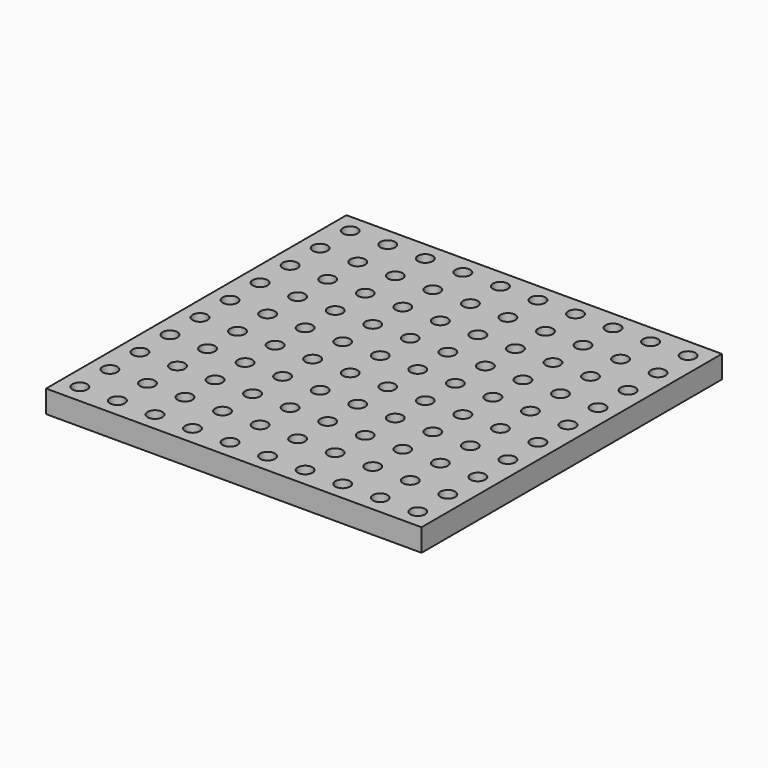
from build123d import *

# Parameters (mm, degrees)
F0_W     = 25.4
F0_H     = 25.4
F0_R     = 0.5
F1_DEPTH = 1.524


with BuildPart() as f1:
    # F0 (on Top) → F1 (new body)
    with BuildSketch(Plane.XY):
        with Locations((11.43, 11.43)):
            Rectangle(F0_W, F0_H)
        Circle(F0_R, mode=Mode.SUBTRACT)
        with Locations((2.54, 0)):
            Circle(F0_R, mode=Mode.SUBTRACT)
        with Locations((5.08, 0)):
            Circle(F0_R, mode=Mode.SUBTRACT)
        with Locations((0, 2.54)):
            Circle(F0_R, mode=Mode.SUBTRACT)
        with Locations((0, 5.08)):
            Circle(F0_R, mode=Mode.SUBTRACT)
        with Locations((2.54, 2.54)):
            Circle(F0_R, mode=Mode.SUBTRACT)
        with Locations((5.08, 2.54)):
            Circle(F0_R, mode=Mode.SUBTRACT)
        with Locations((2.54, 5.08)):
            Circle(F0_R, mode=Mode.SUBTRACT)
        with Locations((5.08, 5.08)):
            Circle(F0_R, mode=Mode.SUBTRACT)
        with Locations((7.62, 0)):
            Circle(F0_R, mode=Mode.SUBTRACT)
        with Locations((10.16, 0)):
            Circle(F0_R, mode=Mode.SUBTRACT)
        with Locations((7.62, 2.54)):
            Circle(F0_R, mode=Mode.SUBTRACT)
        with Locations((7.62, 5.08)):
            Circle(F0_R, mode=Mode.SUBTRACT)
        with Locations((10.16, 2.54)):
            Circle(F0_R, mode=Mode.SUBTRACT)
        with Locations((10.16, 5.08)):
            Circle(F0_R, mode=Mode.SUBTRACT)
        with Locations((0, 7.62)):
            Circle(F0_R, mode=Mode.SUBTRACT)
        with Locations((2.54, 7.62)):
            Circle(F0_R, mode=Mode.SUBTRACT)
        with Locations((5.08, 7.62)):
            Circle(F0_R, mode=Mode.SUBTRACT)
        with Locations((0, 10.16)):
            Circle(F0_R, mode=Mode.SUBTRACT)
        with Locations((2.54, 10.16)):
            Circle(F0_R, mode=Mode.SUBTRACT)
        with Locations((5.08, 10.16)):
            Circle(F0_R, mode=Mode.SUBTRACT)
        with Locations((7.62, 7.62)):
            Circle(F0_R, mode=Mode.SUBTRACT)
        with Locations((10.16, 7.62)):
            Circle(F0_R, mode=Mode.SUBTRACT)
        with Locations((7.62, 10.16)):
            Circle(F0_R, mode=Mode.SUBTRACT)
        with Locations((10.16, 10.16)):
            Circle(F0_R, mode=Mode.SUBTRACT)
        with Locations((12.7, 0)):
            Circle(F0_R, mode=Mode.SUBTRACT)
        with Locations((15.24, 0)):
            Circle(F0_R, mode=Mode.SUBTRACT)
        with Locations((12.7, 2.54)):
            Circle(F0_R, mode=Mode.SUBTRACT)
        with Locations((12.7, 5.08)):
            Circle(F0_R, mode=Mode.SUBTRACT)
        with Locations((15.24, 2.54)):
            Circle(F0_R, mode=Mode.SUBTRACT)
        with Locations((15.24, 5.08)):
            Circle(F0_R, mode=Mode.SUBTRACT)
        with Locations((17.78, 0)):
            Circle(F0_R, mode=Mode.SUBTRACT)
        with Locations((20.32, 0)):
            Circle(F0_R, mode=Mode.SUBTRACT)
        with Locations((22.86, 0)):
            Circle(F0_R, mode=Mode.SUBTRACT)
        with Locations((17.78, 2.54)):
            Circle(F0_R, mode=Mode.SUBTRACT)
        with Locations((20.32, 2.54)):
            Circle(F0_R, mode=Mode.SUBTRACT)
        with Locations((17.78, 5.08)):
            Circle(F0_R, mode=Mode.SUBTRACT)
        with Locations((20.32, 5.08)):
            Circle(F0_R, mode=Mode.SUBTRACT)
        with Locations((22.86, 2.54)):
            Circle(F0_R, mode=Mode.SUBTRACT)
        with Locations((22.86, 5.08)):
            Circle(F0_R, mode=Mode.SUBTRACT)
        with Locations((12.7, 7.62)):
            Circle(F0_R, mode=Mode.SUBTRACT)
        with Locations((15.24, 7.62)):
            Circle(F0_R, mode=Mode.SUBTRACT)
        with Locations((12.7, 10.16)):
            Circle(F0_R, mode=Mode.SUBTRACT)
        with Locations((15.24, 10.16)):
            Circle(F0_R, mode=Mode.SUBTRACT)
        with Locations((17.78, 7.62)):
            Circle(F0_R, mode=Mode.SUBTRACT)
        with Locations((20.32, 7.62)):
            Circle(F0_R, mode=Mode.SUBTRACT)
        with Locations((22.86, 7.62)):
            Circle(F0_R, mode=Mode.SUBTRACT)
        with Locations((17.78, 10.16)):
            Circle(F0_R, mode=Mode.SUBTRACT)
        with Locations((20.32, 10.16)):
            Circle(F0_R, mode=Mode.SUBTRACT)
        with Locations((22.86, 10.16)):
            Circle(F0_R, mode=Mode.SUBTRACT)
        with Locations((0, 12.7)):
            Circle(F0_R, mode=Mode.SUBTRACT)
        with Locations((2.54, 12.7)):
            Circle(F0_R, mode=Mode.SUBTRACT)
        with Locations((5.08, 12.7)):
            Circle(F0_R, mode=Mode.SUBTRACT)
        with Locations((0, 15.24)):
            Circle(F0_R, mode=Mode.SUBTRACT)
        with Locations((2.54, 15.24)):
            Circle(F0_R, mode=Mode.SUBTRACT)
        with Locations((5.08, 15.24)):
            Circle(F0_R, mode=Mode.SUBTRACT)
        with Locations((7.62, 12.7)):
            Circle(F0_R, mode=Mode.SUBTRACT)
        with Locations((10.16, 12.7)):
            Circle(F0_R, mode=Mode.SUBTRACT)
        with Locations((7.62, 15.24)):
            Circle(F0_R, mode=Mode.SUBTRACT)
        with Locations((10.16, 15.24)):
            Circle(F0_R, mode=Mode.SUBTRACT)
        with Locations((0, 17.78)):
            Circle(F0_R, mode=Mode.SUBTRACT)
        with Locations((0, 20.32)):
            Circle(F0_R, mode=Mode.SUBTRACT)
        with Locations((2.54, 17.78)):
            Circle(F0_R, mode=Mode.SUBTRACT)
        with Locations((5.08, 17.78)):
            Circle(F0_R, mode=Mode.SUBTRACT)
        with Locations((2.54, 20.32)):
            Circle(F0_R, mode=Mode.SUBTRACT)
        with Locations((5.08, 20.32)):
            Circle(F0_R, mode=Mode.SUBTRACT)
        with Locations((0, 22.86)):
            Circle(F0_R, mode=Mode.SUBTRACT)
        with Locations((2.54, 22.86)):
            Circle(F0_R, mode=Mode.SUBTRACT)
        with Locations((5.08, 22.86)):
            Circle(F0_R, mode=Mode.SUBTRACT)
        with Locations((7.62, 17.78)):
            Circle(F0_R, mode=Mode.SUBTRACT)
        with Locations((7.62, 20.32)):
            Circle(F0_R, mode=Mode.SUBTRACT)
        with Locations((10.16, 17.78)):
            Circle(F0_R, mode=Mode.SUBTRACT)
        with Locations((10.16, 20.32)):
            Circle(F0_R, mode=Mode.SUBTRACT)
        with Locations((7.62, 22.86)):
            Circle(F0_R, mode=Mode.SUBTRACT)
        with Locations((10.16, 22.86)):
            Circle(F0_R, mode=Mode.SUBTRACT)
        with Locations((12.7, 12.7)):
            Circle(F0_R, mode=Mode.SUBTRACT)
        with Locations((15.24, 12.7)):
            Circle(F0_R, mode=Mode.SUBTRACT)
        with Locations((12.7, 15.24)):
            Circle(F0_R, mode=Mode.SUBTRACT)
        with Locations((15.24, 15.24)):
            Circle(F0_R, mode=Mode.SUBTRACT)
        with Locations((17.78, 12.7)):
            Circle(F0_R, mode=Mode.SUBTRACT)
        with Locations((20.32, 12.7)):
            Circle(F0_R, mode=Mode.SUBTRACT)
        with Locations((22.86, 12.7)):
            Circle(F0_R, mode=Mode.SUBTRACT)
        with Locations((17.78, 15.24)):
            Circle(F0_R, mode=Mode.SUBTRACT)
        with Locations((20.32, 15.24)):
            Circle(F0_R, mode=Mode.SUBTRACT)
        with Locations((22.86, 15.24)):
            Circle(F0_R, mode=Mode.SUBTRACT)
        with Locations((12.7, 17.78)):
            Circle(F0_R, mode=Mode.SUBTRACT)
        with Locations((12.7, 20.32)):
            Circle(F0_R, mode=Mode.SUBTRACT)
        with Locations((15.24, 17.78)):
            Circle(F0_R, mode=Mode.SUBTRACT)
        with Locations((15.24, 20.32)):
            Circle(F0_R, mode=Mode.SUBTRACT)
        with Locations((12.7, 22.86)):
            Circle(F0_R, mode=Mode.SUBTRACT)
        with Locations((15.24, 22.86)):
            Circle(F0_R, mode=Mode.SUBTRACT)
        with Locations((17.78, 17.78)):
            Circle(F0_R, mode=Mode.SUBTRACT)
        with Locations((20.32, 17.78)):
            Circle(F0_R, mode=Mode.SUBTRACT)
        with Locations((17.78, 20.32)):
            Circle(F0_R, mode=Mode.SUBTRACT)
        with Locations((20.32, 20.32)):
            Circle(F0_R, mode=Mode.SUBTRACT)
        with Locations((22.86, 17.78)):
            Circle(F0_R, mode=Mode.SUBTRACT)
        with Locations((22.86, 20.32)):
            Circle(F0_R, mode=Mode.SUBTRACT)
        with Locations((17.78, 22.86)):
            Circle(F0_R, mode=Mode.SUBTRACT)
        with Locations((20.32, 22.86)):
            Circle(F0_R, mode=Mode.SUBTRACT)
        with Locations((22.86, 22.86)):
            Circle(F0_R, mode=Mode.SUBTRACT)
    extrude(amount=F1_DEPTH)


solid = f1.part
